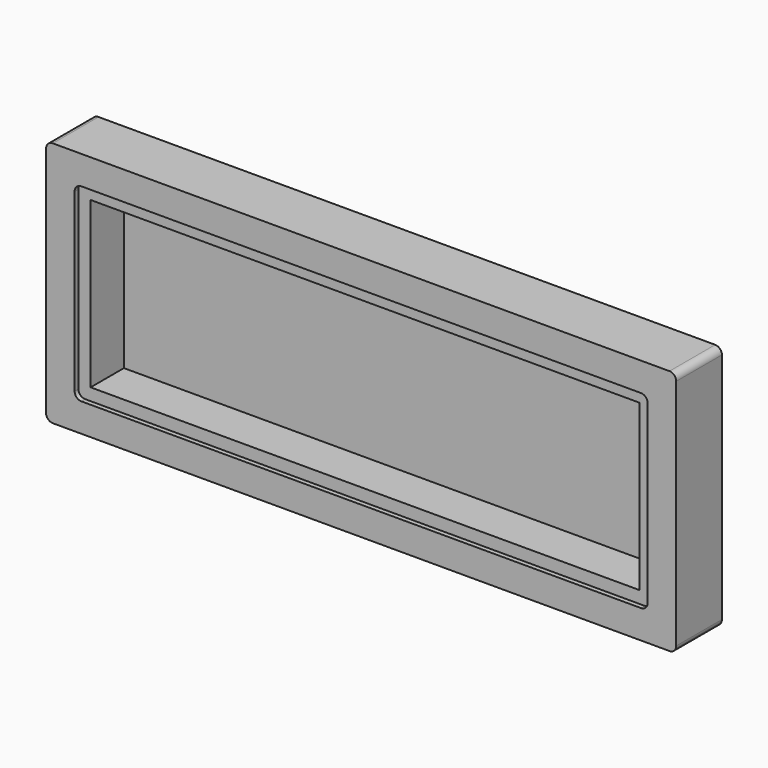
from build123d import *

# Parameters (mm, degrees)
F1_DEPTH = 25.4
F0_W     = 244.054224
F0_H     = 73.369068
F2_DEPTH = 23.283333
F3_DEPTH = 4.7625


with BuildPart() as f1:
    # F0 (on Front) → F1 (new body)
    with BuildSketch(Plane.XZ):
        with BuildLine():
            Line((137.143306, 54.800729), (-137.143306, 54.800729))
            ThreePointArc((-137.143306, 54.800729), (-139.264627, 53.922049), (-140.143306, 51.800729))
            Line((-140.143306, 51.800729), (-140.143306, -51.800729))
            ThreePointArc((-140.143306, -51.800729), (-139.264627, -53.922049), (-137.143306, -54.800729))
            Line((-137.143306, -54.800729), (137.143306, -54.800729))
            ThreePointArc((137.143306, -54.800729), (139.264627, -53.922049), (140.143306, -51.800729))
            Line((140.143306, -51.800729), (140.143306, 51.800729))
            ThreePointArc((140.143306, 51.800729), (139.264627, 53.922049), (137.143306, 54.800729))
        make_face()
        with BuildLine():
            ThreePointArc((-127.443306, 39.100729), (-126.564627, 41.222049), (-124.443306, 42.100729))
            Line((-124.443306, 42.100729), (124.443306, 42.100729))
            ThreePointArc((124.443306, 42.100729), (126.564627, 41.222049), (127.443306, 39.100729))
            Line((127.443306, 39.100729), (127.443306, -39.100729))
            ThreePointArc((127.443306, -39.100729), (126.564627, -41.222049), (124.443306, -42.100729))
            Line((124.443306, -42.100729), (-124.443306, -42.100729))
            ThreePointArc((-124.443306, -42.100729), (-126.564627, -41.222049), (-127.443306, -39.100729))
            Line((-127.443306, -39.100729), (-127.443306, 39.100729))
        make_face(mode=Mode.SUBTRACT)
    extrude(amount=F1_DEPTH)

    # F0 (on Front) → F2 (join)
    with BuildSketch(Plane.XZ):
        with BuildLine():
            Line((124.443306, 42.100729), (-124.443306, 42.100729))
            ThreePointArc((-124.443306, 42.100729), (-126.564627, 41.222049), (-127.443306, 39.100729))
            Line((-127.443306, 39.100729), (-127.443306, -39.100729))
            ThreePointArc((-127.443306, -39.100729), (-126.564627, -41.222049), (-124.443306, -42.100729))
            Line((-124.443306, -42.100729), (124.443306, -42.100729))
            ThreePointArc((124.443306, -42.100729), (126.564627, -41.222049), (127.443306, -39.100729))
            Line((127.443306, -39.100729), (127.443306, 39.100729))
            ThreePointArc((127.443306, 39.100729), (126.564627, 41.222049), (124.443306, 42.100729))
        make_face()
        Rectangle(F0_W, F0_H, mode=Mode.SUBTRACT)
    extrude(amount=F2_DEPTH)

    # F0 (on Front) → F3 (join)
    with BuildSketch(Plane.XZ):
        Rectangle(F0_W, F0_H)
    extrude(amount=F3_DEPTH)


solid = f1.part
